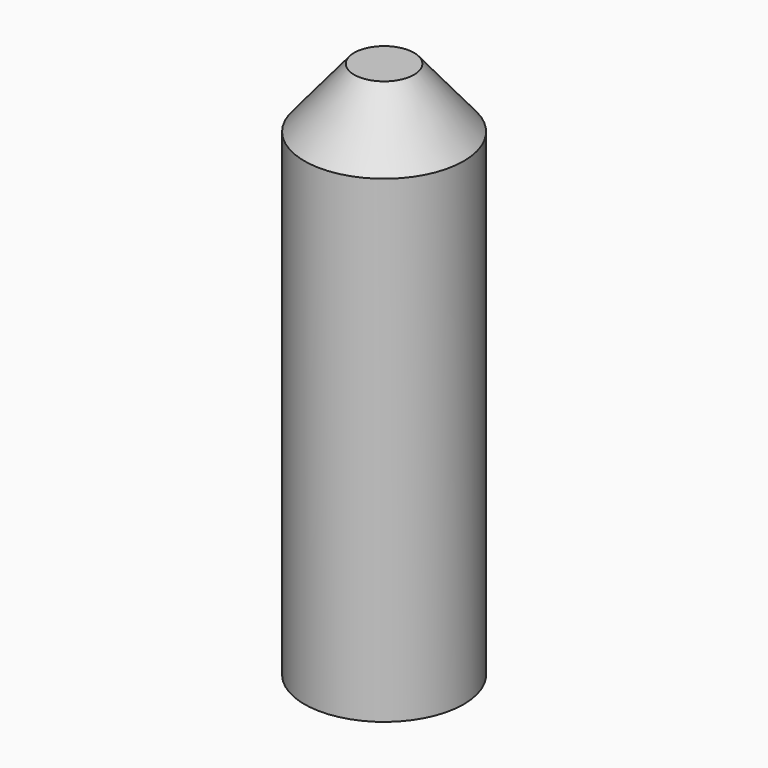
from build123d import *

# Parameters (mm, degrees)
F0_R     = 101.6
F1_DEPTH = 609.6
F4_R     = 101.6
F3_R     = 38.1


with BuildPart() as f1:
    # F0 (on Top) → F1 (new body)
    with BuildSketch(Plane.XY):
        Circle(F0_R)
    extrude(amount=F1_DEPTH)

    # F4 (on face) → F5 section 0
    with BuildSketch(Plane.XY.offset(609.6)):
        Circle(F4_R)
    # F3 (on offset) → F5 section 1
    with BuildSketch(Plane.XY.offset(685.8)):
        Circle(F3_R)
    loft()


solid = f1.part
